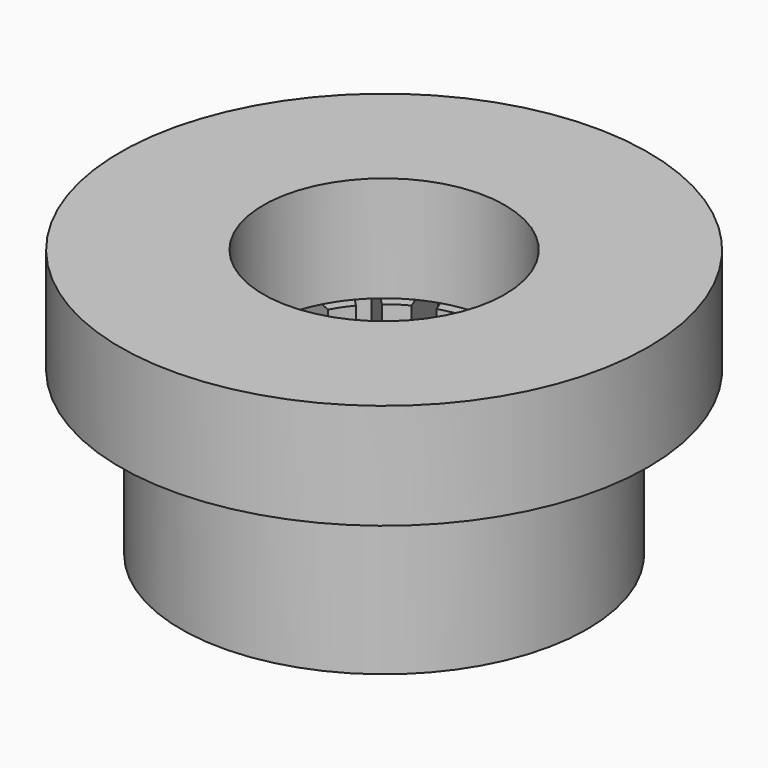
from build123d import *

# Parameters (mm, degrees)
SKETCH006_R   = 13
SKETCH006_R_2 = 5.95
PAD003_DEPTH  = 5.2
SKETCH_R      = 10
SKETCH_R_2    = 5.45
PAD_DEPTH     = 8
SKETCH002_W   = 1
SKETCH002_H   = 18.16
SKETCH002_W_2 = 18.16
SKETCH002_H_2 = 1
POCKET_DEPTH  = 13


with BuildPart() as linear_bearing_holder:
    # Sketch006 → Pad003 (new body)
    with BuildSketch(Plane.XY):
        Circle(SKETCH006_R)
        Circle(SKETCH006_R_2, mode=Mode.SUBTRACT)
    extrude(amount=PAD003_DEPTH)


with BuildPart() as linearbearingfusion:
    # Sketch → Pad (new body)
    with BuildSketch(Plane.XY):
        Circle(SKETCH_R)
        Circle(SKETCH_R_2, mode=Mode.SUBTRACT)
    extrude(amount=PAD_DEPTH)

    # Sketch002 → Pocket (cut)
    with BuildSketch(Plane.XY):
        Rectangle(SKETCH002_W, SKETCH002_H)
        Polygon((3.015215, 8.578896), (-3.940517, -8.197161), (-3.016771, -8.580167), (3.938961, 8.19589), align=None)
        Polygon((6.056348, 6.770742), (-6.77744, -6.049612), (-6.070703, -6.757089), (6.763084, 6.063266), align=None)
        Polygon((8.203481, 3.930131), (-8.582606, -3.005738), (-8.200729, -3.929951), (8.585358, 3.005918), align=None)
        with Locations((0.000556, -0.009993)):
            Rectangle(SKETCH002_W_2, SKETCH002_H_2)
        Polygon((8.585358, -3.005918), (-8.191917, 3.970918), (-8.57589, 3.047573), (8.201385, -3.929262), align=None)
        Polygon((6.763084, -6.063266), (-6.042956, 6.783069), (-6.751173, 6.077074), (6.054867, -6.769261), align=None)
        Polygon((3.938961, -8.19589), (-2.974592, 8.585961), (-3.899205, 8.205052), (3.014349, -8.576799), align=None)
    extrude(amount=POCKET_DEPTH, mode=Mode.SUBTRACT)


with BuildPart() as linearbearingfusion_1:
    # Body placement: moved
    add(linearbearingfusion.part.moved(Location((0, 0, -8))))

    # Fusion002: union linear_bearing_holder
    add(linear_bearing_holder.part)


with BuildPart() as linearbearingfusion_2:
    # Fusion002 placement: moved
    add(linearbearingfusion_1.part.moved(Location((0, 0, -5))))


solid = linearbearingfusion_2.part
